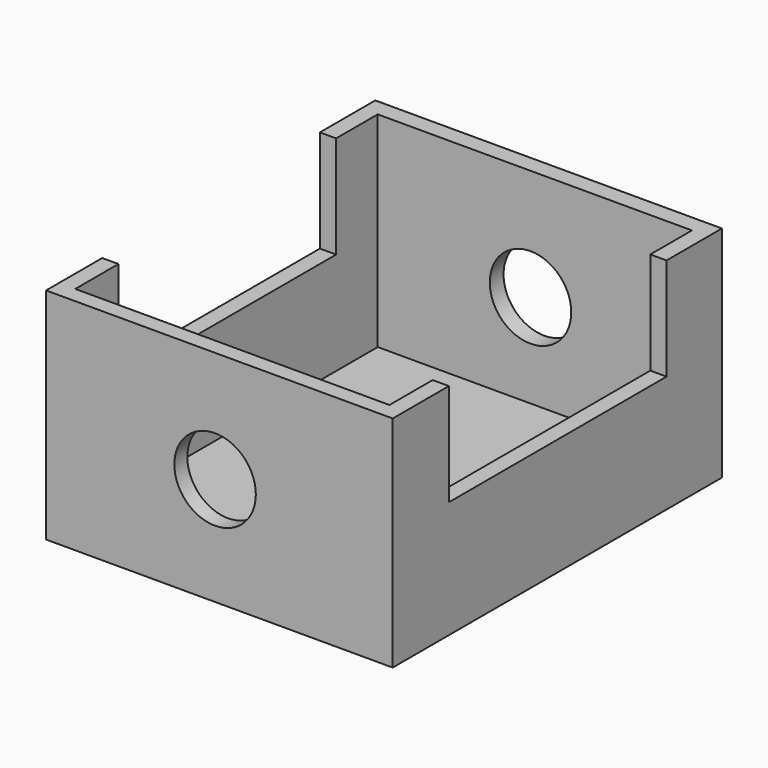
from build123d import *

# Parameters (mm, degrees)
F0_W     = 79.085034
F0_H     = 93.884569
F1_DEPTH = 50.038
F2_W     = 62.076326
F2_H     = 23.337272
F3_DEPTH = 124.46
F4_W     = 71.68526
F4_H     = 86.253557
F5_DEPTH = 46.736
F6_R     = 9.296837
F7_DEPTH = 141.986


with BuildPart() as f1:
    # F0 (on Top) → F1 (new body)
    with BuildSketch(Plane.XY):
        with Locations((5.318584, -0.231241)):
            Rectangle(F0_W, F0_H)
    extrude(amount=F1_DEPTH)

    # F2 (on face) → F3 (cut)
    with BuildSketch(Plane(origin=(-34.223933, 0, 0), x_dir=(0, -1, 0), z_dir=(-1, 0, 0))):
        with Locations((0.123933, 38.369364)):
            Rectangle(F2_W, F2_H)
    extrude(amount=-F3_DEPTH, mode=Mode.SUBTRACT)

    # F4 (on face) → F5 (cut)
    with BuildSketch(Plane.XY.offset(50.038)):
        with Locations((5.318583, -0.346864)):
            Rectangle(F4_W, F4_H)
        with Locations((5.318583, -0.346864)):
            Rectangle(F4_W, F4_H)
    extrude(amount=-F5_DEPTH, mode=Mode.SUBTRACT)

    # F6 (on face) → F7 (cut)
    with BuildSketch(Plane.XZ.offset(47.173526)):
        with Locations((4.334087, 24.607167)):
            Circle(F6_R)
    extrude(amount=-F7_DEPTH, mode=Mode.SUBTRACT)


solid = f1.part
